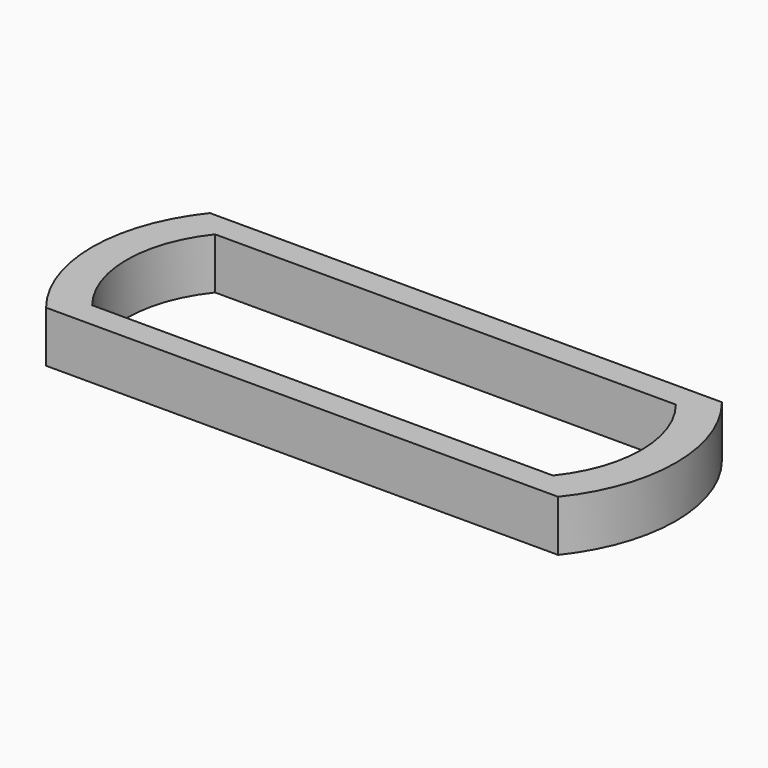
from build123d import *

# Parameters (mm, degrees)
F1_DEPTH = 25.4


with BuildPart() as f1:
    # F0 (on Top) → F1 (new body)
    with BuildSketch(Plane.XY):
        with BuildLine():
            Line((158.613705, 51.07949), (-95.386295, 51.07949))
            ThreePointArc((-95.386295, 51.07949), (-113.217115, 0.27949), (-95.386295, -50.52051))
            Line((-95.386295, -50.52051), (31.613705, -50.52051))
            Line((31.613705, -50.52051), (158.613705, -50.52051))
            ThreePointArc((158.613705, -50.52051), (176.444525, 0.27949), (158.613705, 51.07949))
        make_face()
        with BuildLine():
            Line((145.913705, -37.82051), (31.613705, -37.82051))
            Line((31.613705, -37.82051), (-82.686295, -37.82051))
            ThreePointArc((-82.686295, -37.82051), (-96.05941, 0.27949), (-82.686295, 38.37949))
            Line((-82.686295, 38.37949), (31.613705, 38.37949))
            Line((31.613705, 38.37949), (145.913705, 38.37949))
            ThreePointArc((145.913705, 38.37949), (159.28682, 0.27949), (145.913705, -37.82051))
        make_face(mode=Mode.SUBTRACT)
    extrude(amount=F1_DEPTH)


solid = f1.part
